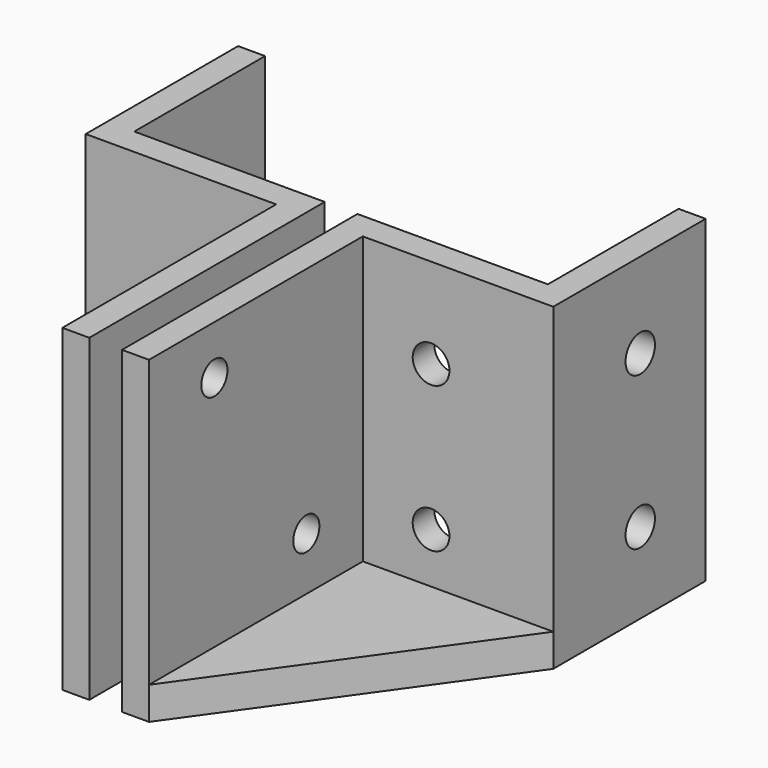
from build123d import *

# Parameters (mm, degrees)
F1_DEPTH = 4
F3_DEPTH = 35
F4_R     = 2.25
F5_DEPTH = 3.3
F6_R     = 2
F7_DEPTH = 3.3
F8_R     = 2.25
F9_DEPTH = 3.3


with BuildPart() as f1:
    # F0 (on Top) → F1 (new body)
    with BuildSketch(Plane.XY):
        Polygon((2, -36), (5.3, -36), (28.6, -3.3), (28.6, 0), (28.6, 20), (25.3, 20), (25.3, 0), (2, 0), align=None)
    extrude(amount=F1_DEPTH)

    # F2 (on face) → F3 (join)
    with BuildSketch(Plane.XY.offset(4)):
        Polygon((2, -36), (5.3, -36), (5.3, -3.3), (28.6, -3.3), (28.6, 20), (25.3, 20), (25.3, 0), (2, 0), align=None)
    extrude(amount=F3_DEPTH)

    # F4 (on face) → F5 (cut, through all)
    with BuildSketch(Plane(origin=(25.3, 0, 0), x_dir=(0, -1, 0), z_dir=(-1, 0, 0))):
        with Locations((-10, 28.5837799311)):
            Circle(F4_R)
        with Locations((-10, 9.8900189623)):
            Circle(F4_R)
    extrude(amount=-F5_DEPTH, mode=Mode.SUBTRACT)

    # F6 (on face) → F7 (cut, through all)
    with BuildSketch(Plane(origin=(2, 0, 0), x_dir=(0, -1, 0), z_dir=(-1, 0, 0))):
        with Locations((26, 33)):
            Circle(F6_R)
        with Locations((11.9424867444, 10.5)):
            Circle(F6_R)
    extrude(amount=-F7_DEPTH, mode=Mode.SUBTRACT)

    # F8 (on face) → F9 (cut, through all)
    with BuildSketch(Plane(origin=(0, 0, 0), x_dir=(-1, 0, 0), z_dir=(0, 1, 0))):
        with Locations((-13.65, 27.9689840972)):
            Circle(F8_R)
        with Locations((-13.65, 10.1455412805)):
            Circle(F8_R)
    extrude(amount=-F9_DEPTH, mode=Mode.SUBTRACT)


with BuildPart() as f10_1:
    # F10: instance of F1
    add(f1.part.mirror(Plane.YZ))


solid = Compound([f1.part, f10_1.part])
